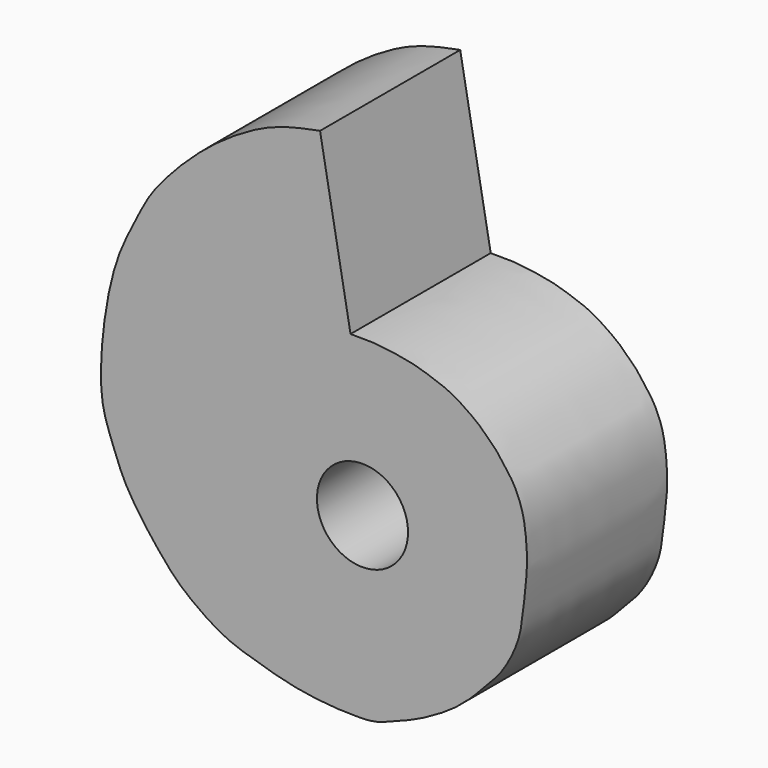
from build123d import *

# Parameters (mm, degrees)
F1_DEPTH = 12.7
F2_R     = 3.302
F3_DEPTH = 12.7


with BuildPart() as f1:
    # F0 (on Front) → F1 (new body)
    with BuildSketch(Plane.XZ):
        with BuildLine():
            add(Edge.make_bspline(
                [(-1.6607752768, 11.294092983), (-1.2317678421, 11.3008081014), (-0.3539009147, 11.3145490762), (1.0068531892, 11.2007076462), (3.0076167376, 10.8781970785), (4.2493157605, 10.423913388), (5.7159003317, 9.9646998458), (7.7183444706, 8.5302920944), (7.9508694836, 8.1977156573), (8.8746778554, 7.4300232186), (9.4477208171, 6.5499191871), (10.0585137857, 5.8436030676), (10.8059206009, 4.3006441104), (11.0808466347, 2.4741013608), (11.1687585467, 0.6780435193), (11.0186708556, -0.8719503791), (10.8147314659, -2.5829933913), (10.5876449102, -4.4278680265), (9.308626869, -6.8629306465), (8.0830501372, -7.98528884), (7.3486632045, -8.8605919642), (5.9574875973, -10.1076576399), (4.5494478838, -10.9813214248), (2.9913724646, -11.8347283695), (1.4133944871, -12.3995997711), (0.0138848952, -13.0007801239), (-1.2154593657, -12.9617032709), (-1.8644315423, -12.9410745576)],
                knots=[0, 0, 0, 0, 0.0362862782, 0.0742516819, 0.119708619, 0.1562830042, 0.1972946526, 0.2464122334, 0.2676587734, 0.3016748662, 0.3349814661, 0.3656680945, 0.4070665885, 0.4512091467, 0.4940708497, 0.5340767846, 0.5756370008, 0.6197787748, 0.6727081899, 0.7136678167, 0.7476940231, 0.7910426913, 0.8329099827, 0.8755256704, 0.9169857347, 0.9561766788, 1, 1, 1, 1], degree=3))
            Line((-1.6607752768, 11.294092983), (-3.8699007127, 23.5398821533))
            add(Edge.make_bspline(
                [(-1.8644315423, -12.9410745576), (-1.9464602795, -12.9434783971), (-2.2727925517, -12.9530415139), (-5.3083012989, -12.7586994143), (-8.8143240937, -11.7129735057), (-11.0501893139, -10.9852103377), (-13.9101895619, -8.9689822976), (-15.2225717151, -7.4597070791), (-16.6067603493, -5.7419144038), (-18.130140246, -3.477441248), (-18.9375036624, -1.1706652583), (-19.8712875155, 1.112668278), (-19.7029453601, 5.8296137518), (-18.7450579464, 10.6288938768), (-17.2995471304, 13.3226677938), (-16.3149041448, 15.4092162739), (-14.5002885808, 17.5645704514), (-12.3426528733, 19.6154257036), (-10.1658084819, 21.2237732898), (-7.5815947125, 22.6704141749), (-5.2629849014, 23.274883651), (-4.289940116, 23.4599804405), (-3.8699007127, 23.5398821533)],
                knots=[0, 0, 0, 0, 0.0177047857, 0.0704343765, 0.13090045, 0.1788897385, 0.2355995328, 0.279583171, 0.3249505434, 0.3760651155, 0.4238741979, 0.4715345126, 0.5383968598, 0.6075536919, 0.6608058616, 0.7070676241, 0.7586167298, 0.8119746186, 0.8629455673, 0.9162482769, 0.9638464495, 1, 1, 1, 1], degree=3))
        make_face()
    extrude(amount=F1_DEPTH)

    # F2 (on face) → F3 (cut)
    with BuildSketch(Plane.XZ.offset(12.7)):
        with Locations((-0.7946157476, 0)):
            Circle(F2_R)
    extrude(amount=-F3_DEPTH, mode=Mode.SUBTRACT)


solid = f1.part
